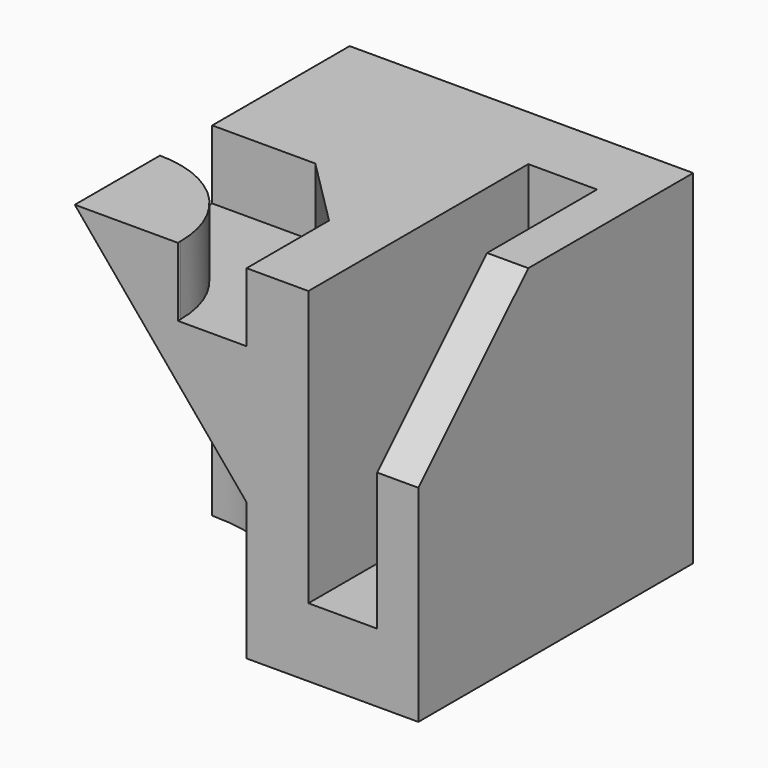
from build123d import *

# Parameters (mm, degrees)
F0_W          = 50
F0_H          = 50
F1_DEPTH      = 50
F2_W          = 10
F2_H          = 40
F3_DEPTH      = 40
F4_R          = 10
F5_SIZE       = 20
F7_ANGLE_BACK = 90
F7_ANGLE      = 180
F10_DEPTH     = 10


with BuildPart() as f1:
    # F0 (on Front) → F1 (new body)
    with BuildSketch(Plane.XZ):
        with Locations((25, 25)):
            Rectangle(F0_W, F0_H)
    extrude(amount=F1_DEPTH)

    # F2 (on face) → F3 (cut)
    with BuildSketch(Plane.XY.offset(50)):
        with Locations((39, -30)):
            Rectangle(F2_W, F2_H)
    extrude(amount=-F3_DEPTH, mode=Mode.SUBTRACT)

    # F4
    f4_edges = [f1.edges().sort_by_distance(p)[0] for p in [
        (39, -10, 10),
    ]]
    fillet(f4_edges, radius=F4_R)

    # F5
    f5_edges = [f1.edges().sort_by_distance(p)[0] for p in [
        (47, -50, 50),
    ]]
    chamfer(f5_edges, length=F5_SIZE)

    # F6 (on face) → F7 (revolve, cut)
    with BuildSketch(Plane.XZ.offset(50), mode=Mode.PRIVATE) as f7_sk:
        Polygon((25, 20), (0, 50), (0, 0), (25, 0), align=None)
    revolve(f7_sk.sketch.rotate(Axis((0, -50, 25), (0, 0, -1)), -F7_ANGLE_BACK), axis=Axis((0, -50, 25), (0, 0, -1)), revolution_arc=F7_ANGLE, mode=Mode.SUBTRACT)

    # F9 (on face) → F10 (cut)
    with BuildSketch(Plane.XY.offset(50)):
        with BuildLine():
            ThreePointArc((0, -34.5079771981), (10.6066017178, -38.9013754803), (15, -49.5079771981))
            ThreePointArc((15, -49.5079771981), (14.9979819343, -49.7540217013), (14.9919282803, -50))
            Line((14.9919282803, -50), (25, -50))
            Line((25, -50), (25, -35))
            Line((25, -35), (15, -25))
            Line((15, -25), (0, -25))
            Line((0, -25), (0, -34.5079771981))
        make_face()
    extrude(amount=-F10_DEPTH, mode=Mode.SUBTRACT)


solid = f1.part
